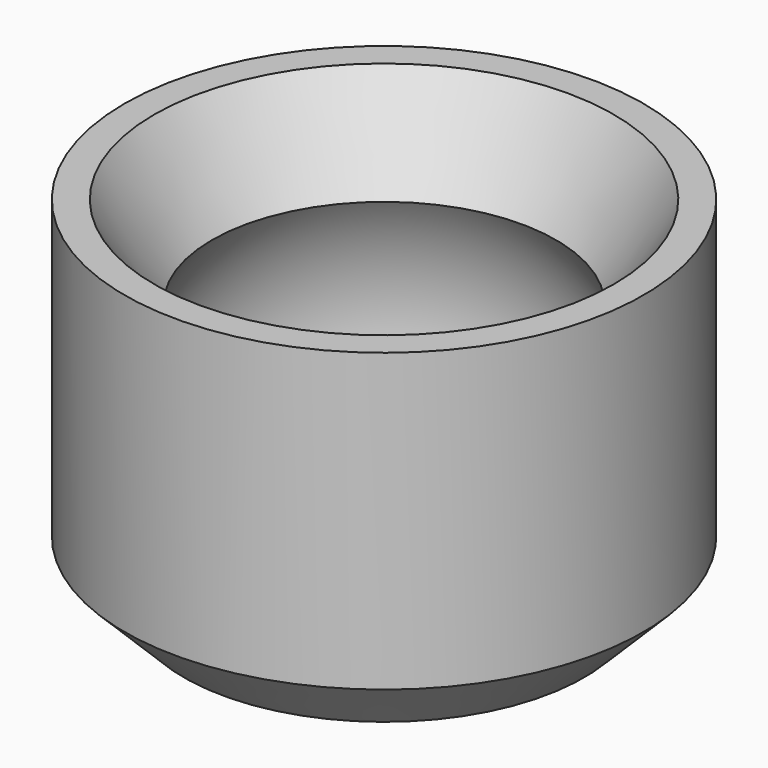
from build123d import *


with BuildPart() as f1:
    # F0 (on Front) → F1 (revolve)
    with BuildSketch(Plane.XZ):
        with BuildLine():
            ThreePointArc((-5.75, 1), (-6.999838, 4.944596), (-5.803743, 8.905819))
            Line((-5.803743, 8.905819), (-7.75, 12))
            Line((-7.75, 12), (-8.75, 12))
            Line((-8.75, 12), (-8.75, 2))
            Line((-8.75, 2), (-6.75, 0))
            Line((-6.75, 0), (-5.75, 0))
            Line((-5.75, 0), (-5.75, 1))
        make_face()
    revolve(axis=Axis((0, 0, 4.99218), (0, 0, 1)))


solid = f1.part
